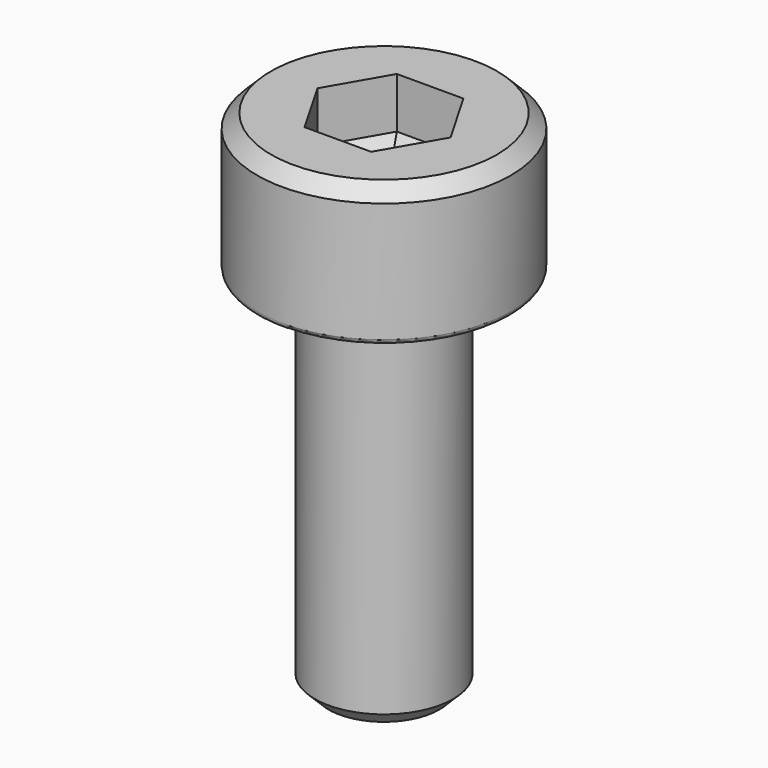
from build123d import *

# Parameters (mm, degrees)
F3_DEPTH = 1.6
F4_SIZE2 = 0.8660254038
F4_SIZE  = 0.5
F5_SIZE  = 0.3
F6_R     = 0.1


with BuildPart() as f1:
    # F0 (on Front) → F1 (revolve)
    with BuildSketch(Plane.XZ):
        Polygon((2.75, 0), (0, 0), (0, -11), (1.5, -11), (1.5, -3), (2.75, -3), align=None)
    revolve(axis=Axis((0, 0, -5.5), (0, 0, 1)))

    # F2 (on face) → F3 (cut)
    with BuildSketch(Plane.XY):
        Polygon((0.7216878365, 1.25), (-0.7216878365, 1.25), (-1.443375673, 0), (-0.7216878365, -1.25), (0.7216878365, -1.25), (1.443375673, 0), align=None)
    extrude(amount=-F3_DEPTH, mode=Mode.SUBTRACT)

    # F4
    f4_edges = [f1.edges().sort_by_distance(p)[0] for p in [
        (0, 1.25, -1.6),
        (-1.082532, 0.625, -1.6),
        (-1.082532, -0.625, -1.6),
        (0, -1.25, -1.6),
        (1.082532, -0.625, -1.6),
        (1.082532, 0.625, -1.6),
    ]]
    chamfer(f4_edges, length=F4_SIZE, length2=F4_SIZE2)

    # F5
    f5_edges = [f1.edges().sort_by_distance(p)[0] for p in [
        (-2.75, 0, 0),
        (-1.5, 0, -11),
    ]]
    chamfer(f5_edges, length=F5_SIZE)

    # F6
    f6_edges = [f1.edges().sort_by_distance(p)[0] for p in [
        (-2.75, 0, -3),
    ]]
    fillet(f6_edges, radius=F6_R)


with BuildPart() as f7_1:
    # F7: copy of F1
    add(f1.part)


solid = f1.part
